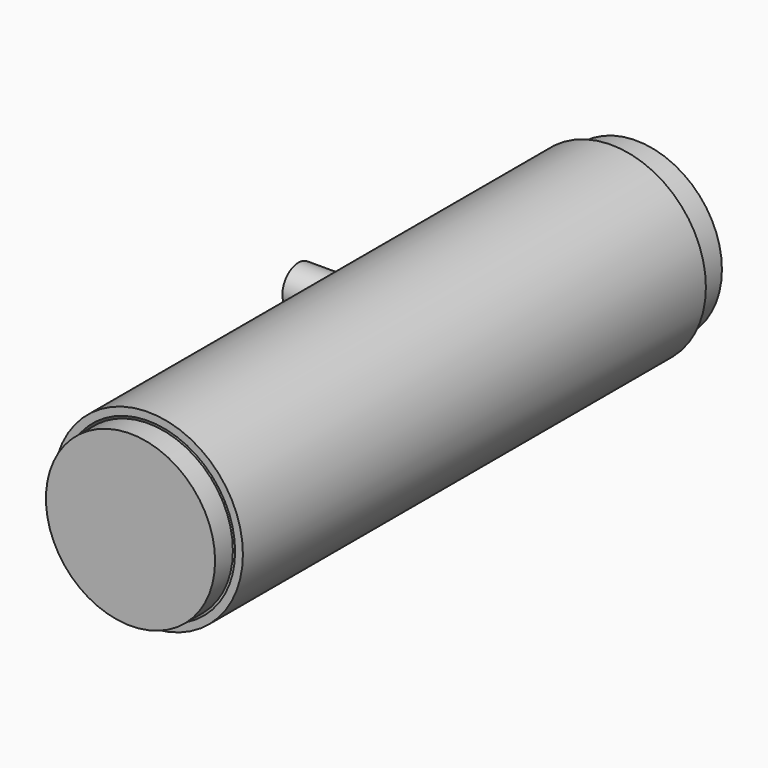
from build123d import *

# Parameters (mm, degrees)
F0_R      = 21.25
F0_R_2    = 19.5
F1_DEPTH  = 130
F2_R      = 19
F3_DEPTH  = 2
F5_DEPTH  = 10
F6_R      = 4
F6_R_2    = 1
F7_DEPTH  = 25
F9_R      = 13.5
F9_R_2    = 1
F9_R_3    = 5
F10_DEPTH = 2
F11_R     = 19
F12_DEPTH = 5
F14_R     = 19.25
F14_R_2   = 15.25
F15_DEPTH = 7
F13_R     = 19.25
F13_R_2   = 2
F13_R_3   = 5.25
F16_DEPTH = 3
F17_R     = 5
F18_DEPTH = 25
F19_R     = 4.5
F19_R_2   = 3.5
F20_DEPTH = 35


with BuildPart() as f1:
    # F0 (on Front) → F1 (new body)
    with BuildSketch(Plane.XZ):
        Circle(F0_R)
        Circle(F0_R_2, mode=Mode.SUBTRACT)
    extrude(amount=F1_DEPTH)

    # F17 (on Right) → F18 (cut)
    with BuildSketch(Plane.YZ):
        with Locations((-44.0929981836, 0)):
            Circle(F17_R)
    extrude(amount=-F18_DEPTH, mode=Mode.SUBTRACT)


with BuildPart() as f3:
    # F2 (on Front) → F3 (new body)
    with BuildSketch(Plane.XZ):
        Circle(F2_R)
    extrude(amount=F3_DEPTH)

    # F4 (on face) → F5 (join)
    with BuildSketch(Plane.XZ.offset(2)):
        with BuildLine():
            ThreePointArc((-0.8807426938, 3.9976556624), (-0.262972184, 4.0850708829), (0.3609074471, 4.0775855972))
            ThreePointArc((0.3609074471, 4.0775855972), (1.4318761863, 11.5690591934), (0, 19))
            ThreePointArc((0, 19), (-1.8165448197, 18.9129628805), (-3.6164468153, 18.6526489387))
            ThreePointArc((-3.6164468153, 18.6526489387), (-1.0279648452, 11.5530119939), (-0.8807426938, 3.9976556624))
        make_face()
        with BuildLine():
            ThreePointArc((4.0449890987, 0.6285075012), (4.0813740456, 0.3151894469), (4.0935264122, 0))
            ThreePointArc((4.0935264122, 0), (4.0813740456, -0.3151894469), (4.0449890987, -0.6285075012))
            ThreePointArc((4.0449890987, -0.6285075012), (11.9029156585, -2.8191622482), (18.9569742559, 1.2779385979))
            ThreePointArc((18.9569742559, 1.2779385979), (18.9051408531, 1.8962197457), (18.8331476428, 2.5124788283))
            ThreePointArc((18.8331476428, 2.5124788283), (11.8589063351, -1.7250083592), (4.0449890987, 0.6285075012))
        make_face()
        with BuildLine():
            ThreePointArc((10.5086804094, -15.8293283513), (4.472463586, -10.9507893463), (1.885499087, -3.6334352451))
            ThreePointArc((1.885499087, -3.6334352451), (1.3532147662, -3.8633881871), (0.7937800824, -4.0158276443))
            ThreePointArc((0.7937800824, -4.0158276443), (2.8936148094, -11.5815369143), (8.6579913708, -16.9126930269))
            ThreePointArc((8.6579913708, -16.9126930269), (9.5986325347, -16.3971416248), (10.5086804094, -15.8293283513))
        make_face()
        with BuildLine():
            ThreePointArc((-7.4296387756, -17.4871515023), (-6.7193868126, -9.7619546431), (-2.2869349367, -3.3951269612))
            ThreePointArc((-2.2869349367, -3.3951269612), (-2.8010234372, -2.9851676991), (-3.2428415122, -2.4981868254))
            ThreePointArc((-3.2428415122, -2.4981868254), (-8.7938159938, -8.4006512862), (-9.46341018, -16.4755536406))
            ThreePointArc((-9.46341018, -16.4755536406), (-8.4616551757, -17.0117721501), (-7.4296387756, -17.4871515023))
        make_face()
        with BuildLine():
            ThreePointArc((2.625124981, 3.1409675773), (3.1082414751, 2.6637930513), (3.5058292586, 2.1133195918))
            ThreePointArc((3.5058292586, 2.1133195918), (9.2901266507, 7.4295802077), (11.8384676733, 14.8610458295))
            ThreePointArc((11.8384676733, 14.8610458295), (11.3062223328, 15.2698833185), (10.7598697961, 15.6596680032))
            ThreePointArc((10.7598697961, 15.6596680032), (8.2557551999, 8.3845012164), (2.625124981, 3.1409675773))
        make_face()
        with BuildLine():
            ThreePointArc((-3.7226537591, 1.7025884639), (-3.4504927386, 2.202511827), (-3.1116166062, 2.6598497295))
            ThreePointArc((-3.1116166062, 2.6598497295), (-11.1480898399, 4.8633482334), (-18.9112303054, 1.8344940269))
            ThreePointArc((-18.9112303054, 1.8344940269), (-18.9777946006, 0.9183202591), (-19, 0))
            ThreePointArc((-19, 0), (-11.6118635943, 3.0993631098), (-3.7226537591, 1.7025884639))
        make_face()
    extrude(amount=F5_DEPTH)

    # F6 (on face) → F7 (join)
    with BuildSketch(Plane.XZ.offset(2)):
        Circle(F6_R)
        Circle(F6_R_2, mode=Mode.SUBTRACT)
    extrude(amount=F7_DEPTH)


with BuildPart() as f10:
    # F9 (on offset) → F10 (new body)
    with BuildSketch(Plane.XZ.offset(32)):
        Circle(F9_R)
        with Locations((-8, 0)):
            Circle(F9_R_2, mode=Mode.SUBTRACT)
        Circle(F9_R_3, mode=Mode.SUBTRACT)
        with Locations((8, 0)):
            Circle(F9_R_2, mode=Mode.SUBTRACT)
    extrude(amount=F10_DEPTH)


with BuildPart() as f12:
    # F11 (on face) → F12 (new body)
    with BuildSketch(Plane.XZ.offset(130)):
        Circle(F11_R)
    extrude(amount=F12_DEPTH)


with BuildPart() as f15:
    # F14 (on face) → F15 (new body)
    with BuildSketch(Plane.XZ):
        Circle(F14_R)
        Circle(F14_R_2, mode=Mode.SUBTRACT)
    extrude(amount=-F15_DEPTH)

    # F13 (on Front) → F16 (join)
    with BuildSketch(Plane.XZ):
        Circle(F13_R)
        with Locations((0, -8)):
            Circle(F13_R_2, mode=Mode.SUBTRACT)
        Circle(F13_R_3, mode=Mode.SUBTRACT)
        with Locations((0, 8)):
            Circle(F13_R_2, mode=Mode.SUBTRACT)
    extrude(amount=-F16_DEPTH)


with BuildPart() as f20:
    # F19 (on Right) → F20 (new body)
    with BuildSketch(Plane.YZ):
        with Locations((-44.1039949656, 0)):
            Circle(F19_R)
        with Locations((-44.1039949656, 0)):
            Circle(F19_R_2, mode=Mode.SUBTRACT)
    extrude(amount=-F20_DEPTH)


solid = Compound([f1.part, f3.part, f10.part, f12.part, f15.part, f20.part])
